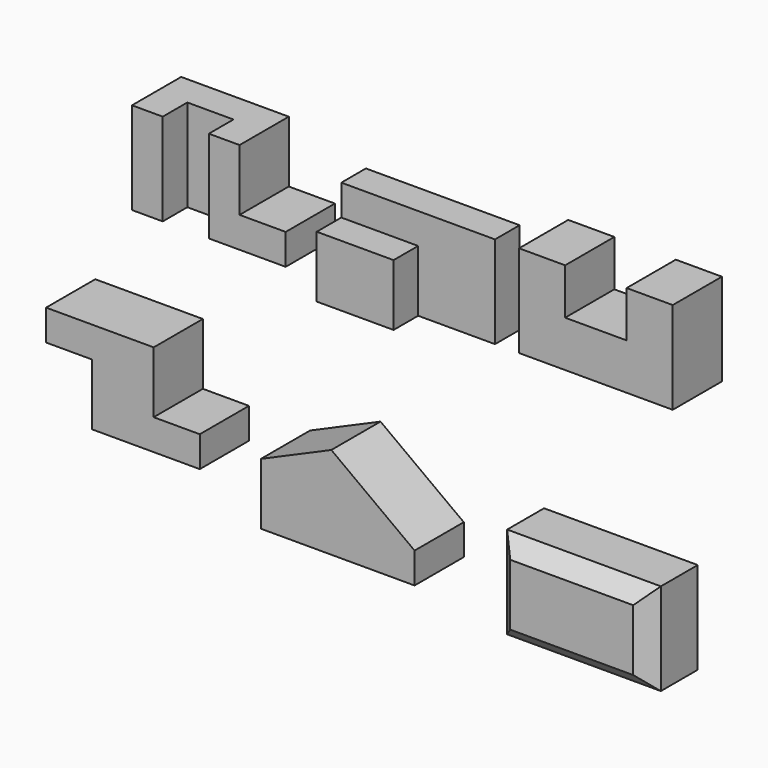
from build123d import *

# Parameters (mm, degrees)
F1_DEPTH  = 101.6
F2_W      = 127
F2_H      = 101.6
F3_DEPTH  = 50.8
F4_W      = 127
F4_H      = 101.6
F5_DEPTH  = 50.8
F7_DEPTH  = 101.6
F8_W      = 76.2
F8_H      = 50.8
F9_DEPTH  = 152.4
F11_DEPTH = 101.6
F13_DEPTH = 101.6
F14_W     = 254
F14_H     = 152.4
F15_DEPTH = 101.6
F16_SIZE  = 25.4


with BuildPart() as f1:
    # F0 (on Front) → F1 (new body)
    with BuildSketch(Plane.XZ):
        Polygon((0, 152.4), (0, 0), (254, 0), (254, 152.4), (177.8, 152.4), (177.8, 76.2), (76.2, 76.2), (76.2, 152.4), align=None)
    extrude(amount=-F1_DEPTH)


with BuildPart() as f3:
    # F2 (on Front) → F3 (new body)
    with BuildSketch(Plane.XZ):
        Polygon((-166.712991, 0), (-114.024056, 0), (-39.712991, 0), (-39.712991, 152.4), (-293.712991, 152.4), (-293.712991, 101.6), (-166.712991, 101.6), align=None)
        with Locations((-230.212991, 50.8)):
            Rectangle(F2_W, F2_H)
    extrude(amount=-F3_DEPTH)

    # F4 (on face) → F5 (join)
    with BuildSketch(Plane.XZ):
        with Locations((-230.212991, 50.8)):
            Rectangle(F4_W, F4_H)
    extrude(amount=F5_DEPTH)


with BuildPart() as f7:
    # F6 (on Front) → F7 (new body)
    with BuildSketch(Plane.XZ):
        Polygon((-639.616827, 152.4), (-639.616827, 0), (-385.616827, 0), (-385.616827, 50.8), (-461.816827, 50.8), (-461.816827, 152.4), align=None)
    extrude(amount=-F7_DEPTH)

    # F8 (on face) → F9 (cut)
    with BuildSketch(Plane.XY.offset(152.4)):
        with Locations((-550.716827, 25.4)):
            Rectangle(F8_W, F8_H)
    extrude(amount=-F9_DEPTH, mode=Mode.SUBTRACT)


with BuildPart() as f11:
    # F10 (on Front) → F11 (new body)
    with BuildSketch(Plane.XZ):
        Polygon((-603.791957, -188.094909), (-781.591957, -188.094909), (-781.591957, -238.894909), (-705.391957, -238.894909), (-705.391957, -340.494909), (-527.591957, -340.494909), (-527.591957, -289.694909), (-603.791957, -289.694909), align=None)
    extrude(amount=-F11_DEPTH)


with BuildPart() as f13:
    # F12 (on Front) → F13 (new body)
    with BuildSketch(Plane.XZ):
        Polygon((-345.33206, -224.986609), (-345.33206, -326.586609), (-91.33206, -326.586609), (-91.33206, -275.786609), (-228.934637, -174.186609), align=None)
    extrude(amount=F13_DEPTH)


with BuildPart() as f15:
    # F14 (on Front) → F15 (new body)
    with BuildSketch(Plane.XZ):
        with Locations((168.321833, -288.585546)):
            Rectangle(F14_W, F14_H)
    extrude(amount=F15_DEPTH)

    # F16
    f16_edges = [f15.edges().sort_by_distance(p)[0] for p in [
        (168.321833, -101.6, -212.385546),
        (41.321833, -101.6, -288.585546),
        (168.321833, -101.6, -364.785546),
        (295.321833, -101.6, -288.585546),
    ]]
    chamfer(f16_edges, length=F16_SIZE)


solid = Compound([f1.part, f3.part, f7.part, f11.part, f13.part, f15.part])
